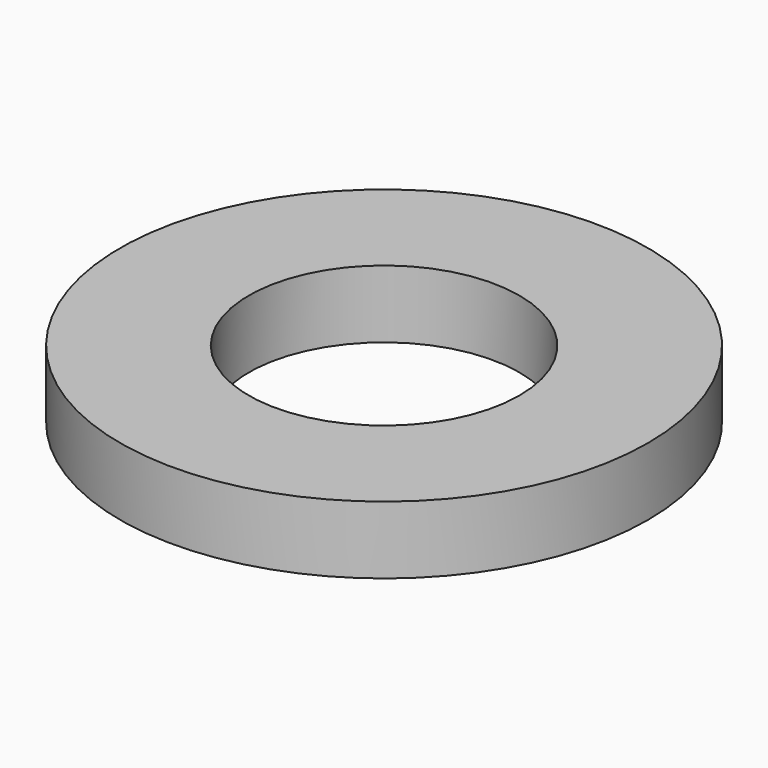
from build123d import *

# Parameters (mm, degrees)
SKETCH_R   = 5.85
SKETCH_R_2 = 3
PAD_DEPTH  = 1.5


with BuildPart() as part:
    # Sketch → Pad (new body)
    with BuildSketch(Plane.XY):
        Circle(SKETCH_R)
        Circle(SKETCH_R_2, mode=Mode.SUBTRACT)
    extrude(amount=PAD_DEPTH)


solid = part.part
